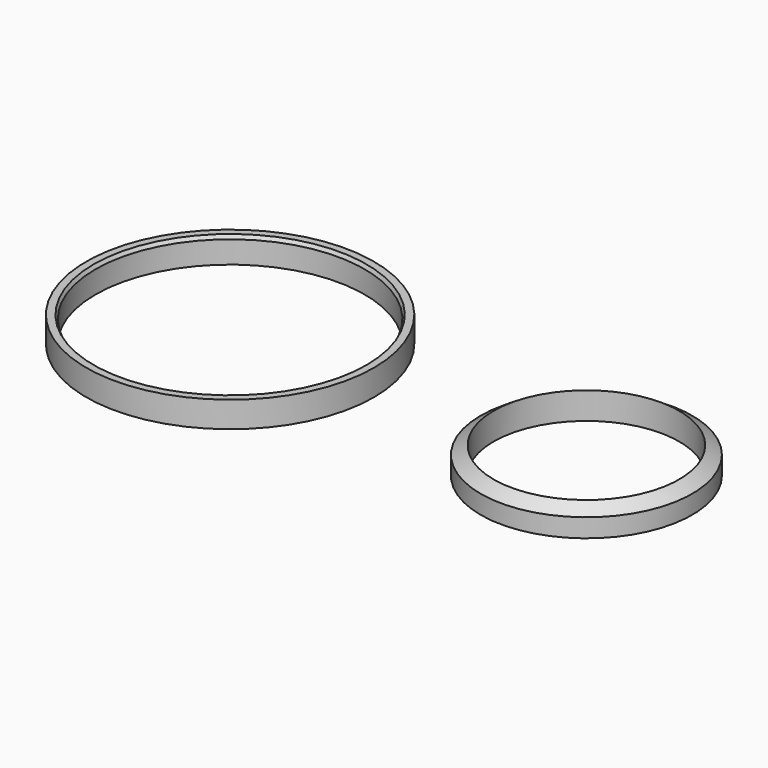
from build123d import *

# Parameters (mm, degrees)
F2_R     = 38.75
F2_R_2   = 36.25
F3_DEPTH = 7
F4_SIZE2 = 0.5
F4_SIZE  = 1


with BuildPart() as f1:
    # F0 (on Front) → F1 (revolve)
    with BuildSketch(Plane.XZ):
        Polygon((-28.5, 0), (-25, 0), (-25, 7.272927), (-28.5, 5), align=None)
    revolve(axis=Axis((0, 0, -16.917149), (0, 0, -1)))


with BuildPart() as f3:
    # F2 (on Top) → F3 (new body)
    with BuildSketch(Plane.XY):
        with Locations((-95.979044, 0)):
            Circle(F2_R)
        with Locations((-95.979044, 0)):
            Circle(F2_R_2, mode=Mode.SUBTRACT)
    extrude(amount=F3_DEPTH)

    # F4
    f4_edges = [f3.edges().sort_by_distance(p)[0] for p in [
        (-132.229044, 0, 7),
    ]]
    chamfer(f4_edges, length=F4_SIZE, length2=F4_SIZE2)


solid = Compound([f1.part, f3.part])
